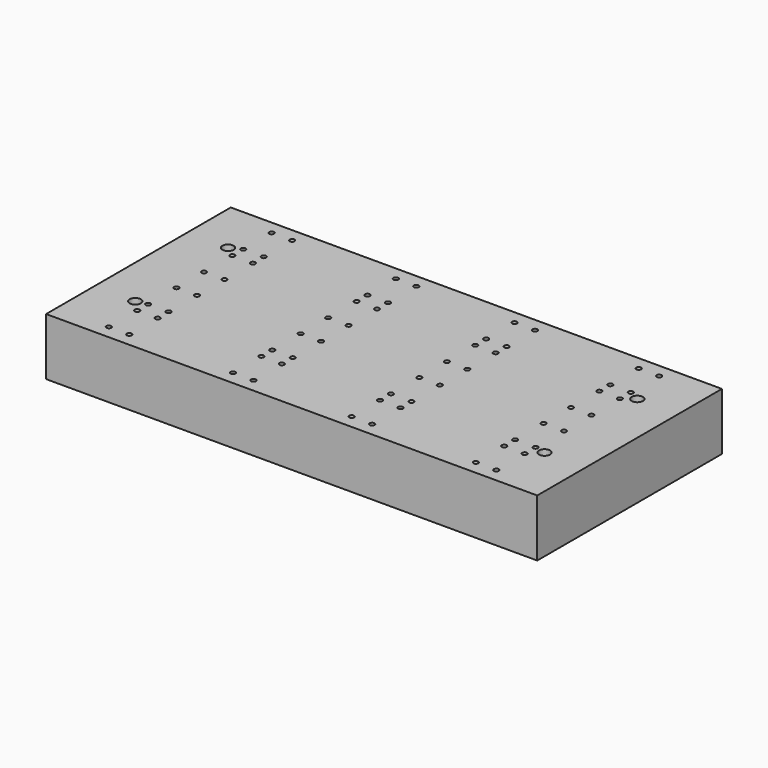
from build123d import *

# Parameters (mm, degrees)
F0_W     = 228.6
F0_H     = 107.442
F1_DEPTH = 26.67
F3_D     = 5.2197
F5_D     = 2.2606
F5_DEPTH = 7.112
F5_TIP   = 0.6791527577


with BuildPart() as f1:
    # F0 (on Top) → F1 (new body)
    with BuildSketch(Plane.XY):
        Rectangle(F0_W, F0_H)
    extrude(amount=F1_DEPTH)

    # F3 (through all)
    with Locations(Plane.XY.offset(26.67)):
        with Locations((-95.25, 28.321), (-95.25, -25.654), (95.25, 28.321), (95.25, -25.654)):
            Hole(F3_D / 2)

    # F5
    with Locations(Plane.XY.offset(26.67)):
        with Locations((-90.17, 47.371), (-80.645, 47.371), (-80.645, 30.861), (-90.17, 30.861), (-90.17, 24.511), (-80.645, 24.511), (-80.645, 8.001), (-90.17, 8.001), (-90.17, -8.001), (-80.645, -8.001), (-80.645, -24.511), (-90.17, -24.511), (-90.17, -30.861), (-80.645, -30.861), (-80.645, -47.371), (-90.17, -47.371), (-32.385, 47.371), (-22.86, 47.371), (-22.86, 30.861), (-32.385, 30.861), (-32.385, 24.511), (-22.86, 24.511), (-22.86, 8.001), (-32.385, 8.001), (-32.385, -8.001), (-22.86, -8.001), (-22.86, -24.511), (-32.385, -24.511), (-32.385, -30.861), (-22.86, -30.861), (-22.86, -47.371), (-32.385, -47.371), (22.86, 47.371), (32.385, 47.371), (32.385, 30.861), (22.86, 30.861), (22.86, 24.511), (32.385, 24.511), (32.385, 8.001), (22.86, 8.001), (22.86, -8.001), (32.385, -8.001), (32.385, -24.511), (22.86, -24.511), (22.86, -30.861), (32.385, -30.861), (32.385, -47.371), (22.86, -47.371), (90.17, 47.371), (80.645, 47.371), (80.645, 30.861), (90.17, 30.861), (90.17, 24.511), (80.645, 24.511), (80.645, 8.001), (90.17, 8.001), (90.17, -8.001), (80.645, -8.001), (80.645, -24.511), (90.17, -24.511), (90.17, -30.861), (80.645, -30.861), (80.645, -47.371), (90.17, -47.371)):
            Hole(F5_D / 2, depth=F5_DEPTH)
            with Locations((0, 0, -(F5_DEPTH + F5_TIP / 2))):  # 118° drill point
                Cone(0, F5_D / 2, F5_TIP, mode=Mode.SUBTRACT)


solid = f1.part
